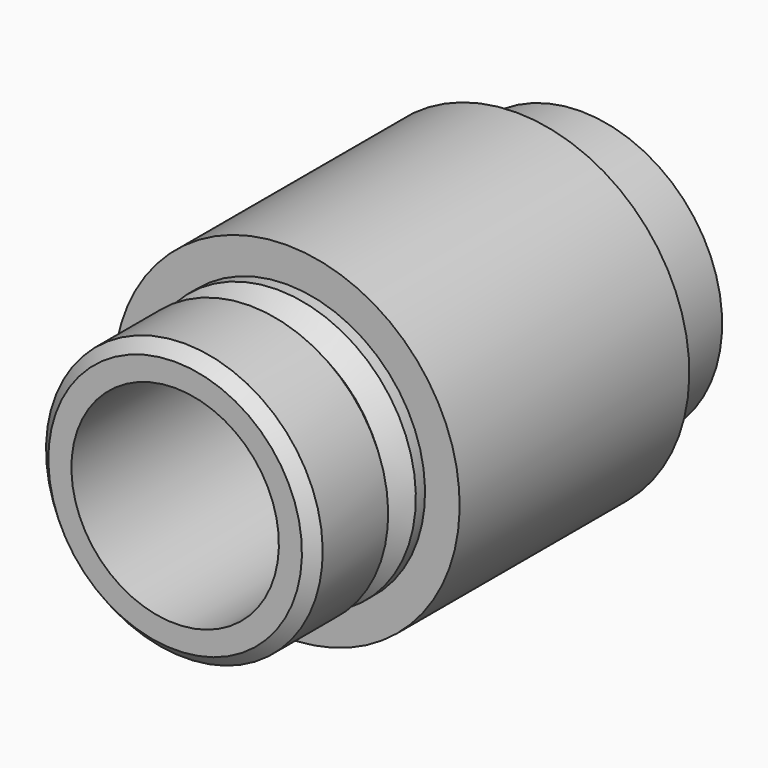
from build123d import *

# Parameters (mm, degrees)
F2_SIZE = 1


with BuildPart() as f1:
    # F0 (on Right) → F1 (revolve)
    with BuildSketch(Plane.YZ):
        Polygon((0, 12), (0, 9), (44, 9), (44, 12.25), (37, 12.25), (37, 15), (12.1, 15), (12.1, 12), (11.1, 12), (9.6, 10.5), (8.1, 12), align=None)
    revolve(axis=Axis((0, 15.313713, 0), (0, 1, 0)))

    # F2
    f2_edges = [f1.edges().sort_by_distance(p)[0] for p in [
        (0, 0, -12),
    ]]
    chamfer(f2_edges, length=F2_SIZE)


solid = f1.part
